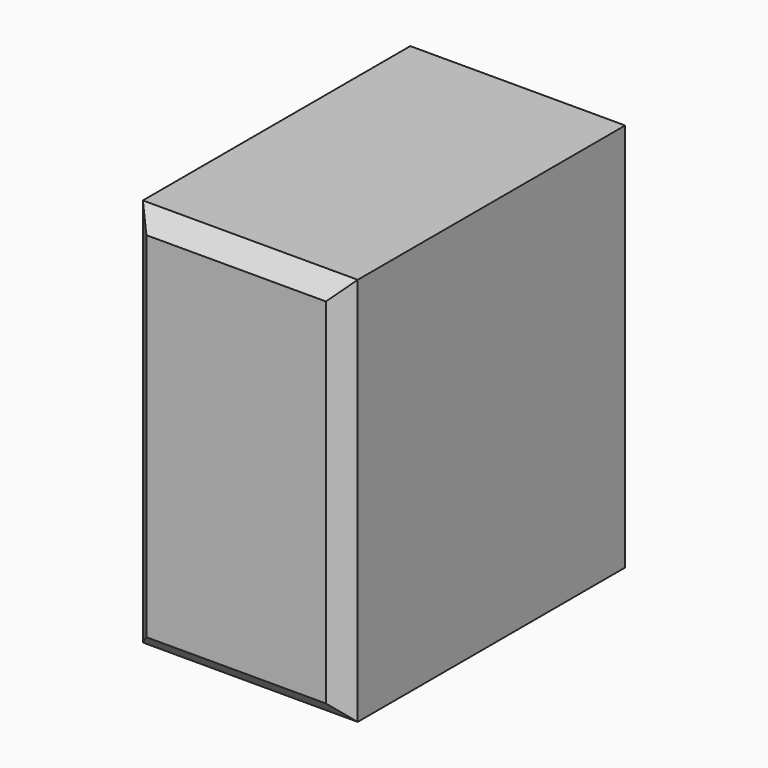
from build123d import *

# Parameters (mm, degrees)
F0_W     = 61.83859
F0_H     = 106.365577
F1_DEPTH = 112.024114
F2_SIZE  = 5.08
F3_SIZE  = 5.08


with BuildPart() as f1:
    # F0 (on Top) → F1 (new body)
    with BuildSketch(Plane.XY):
        with Locations((30.919295, 21.463483)):
            Rectangle(F0_W, F0_H)
    extrude(amount=F1_DEPTH)

    # F2
    f2_edges = [f1.edges().sort_by_distance(p)[0] for p in [
        (0, -31.719305, 56.012057),
        (61.83859, -31.719305, 56.012057),
        (30.919295, -31.719305, 0),
        (30.919295, -31.719305, 112.024114),
    ]]
    chamfer(f2_edges, length=F2_SIZE)

    # F3
    f3_edges = [f1.edges().sort_by_distance(p)[0] for p in [
        (61.83859, 74.646272, 56.012057),
        (0, 74.646272, 56.012057),
        (30.919295, 74.646272, 0),
        (30.919295, 74.646272, 112.024114),
    ]]
    chamfer(f3_edges, length=F3_SIZE)


solid = f1.part
